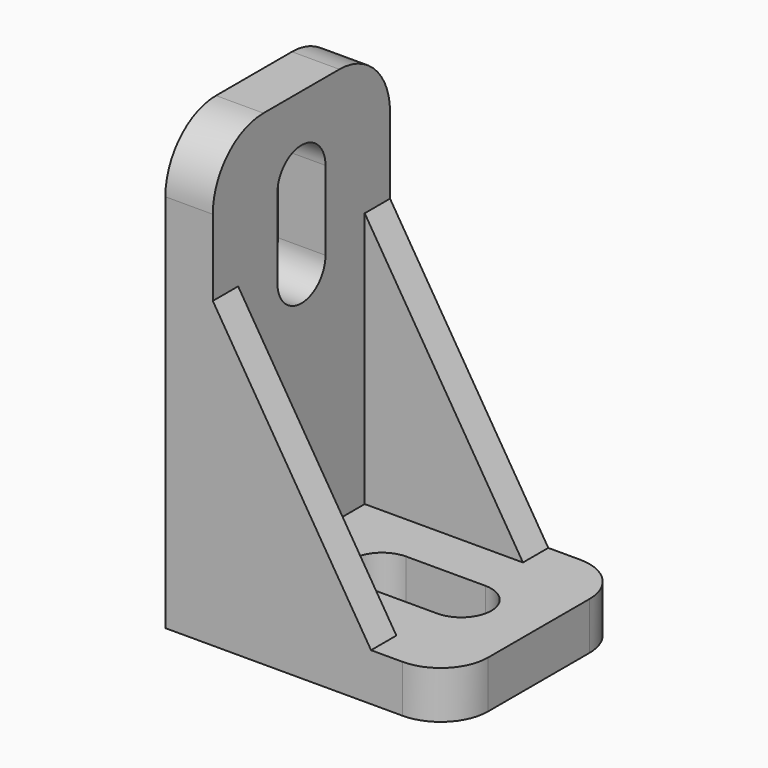
from build123d import *

# Parameters (mm, degrees)
BOX002_W                = 5
BOX002_H                = 3.8
BOX002_DEPTH            = 10
CYLINDER_R              = 1.9
CYLINDER_DEPTH          = 10
ARRAY_X_COUNT           = 2
ARRAY_X_PITCH           = 5
BODY002_PLACEMENT_ANGLE = 90
BOX001_W                = 3
BOX001_H                = 14
BOX001_DEPTH            = 28
FILLET001_R             = 4
PAD_DEPTH               = 2
BOX_W                   = 18
BOX_H                   = 14
BOX_DEPTH               = 3
FILLET_R                = 3


with BuildPart() as between_hole_cube:
    # Box002 → Box002 (new body)
    with BuildSketch(Plane(origin=(0, -1.9, 0), x_dir=(1, 0, 0), z_dir=(0, 0, 1))):
        with Locations((2.5, 1.9)):
            Rectangle(BOX002_W, BOX002_H)
    extrude(amount=BOX002_DEPTH)


with BuildPart() as screw_hole_fusion:
    # Cylinder → Cylinder (new body)
    with BuildSketch(Plane.XY):
        Circle(CYLINDER_R)
    extrude(amount=CYLINDER_DEPTH)

    # Array X: screw hole fusion ×2


with BuildPart() as screw_hole_fusion_1:
    add(screw_hole_fusion.part)
    with Locations(*[(i * ARRAY_X_PITCH, 0, 0) for i in range(1, ARRAY_X_COUNT)]):
        add(screw_hole_fusion.part)

    # Fusion002: union between hole cube
    add(between_hole_cube.part)


with BuildPart() as h_screw_hole_fusion_clone:
    # Body002 base: copy of screw hole fusion
    add(screw_hole_fusion_1.part)


with BuildPart() as h_screw_hole_fusion_clone_1:
    # Body002 placement: moved
    add(h_screw_hole_fusion_clone.part.moved(Location((0, 7, 23.1))).rotate(Axis((0, 7, 23.1), (0, 1, 0)), BODY002_PLACEMENT_ANGLE))


with BuildPart() as hole_fusion:
    # Body001 base: copy of screw hole fusion
    add(screw_hole_fusion_1.part)


with BuildPart() as hole_fusion_1:
    # Body001 placement: moved
    add(hole_fusion.part.moved(Location((8.1, 7, 0))))

    # Fusion001: union h screw hole fusion clone
    add(h_screw_hole_fusion_clone_1.part)


with BuildPart() as bottom_cube_fillet:
    # Box001 → Box001 (new body)
    with BuildSketch(Plane.XY):
        with Locations((1.5, 7)):
            Rectangle(BOX001_W, BOX001_H)
    extrude(amount=BOX001_DEPTH)

    # Fillet001
    fillet001_edges = [bottom_cube_fillet.edges().sort_by_distance(p)[0] for p in [
        (1.5, 0, 28),
        (1.5, 14, 28),
    ]]
    fillet(fillet001_edges, radius=FILLET001_R)


with BuildPart() as triangle_body:
    # Sketch → Pad (new body)
    with BuildSketch(Plane.XZ):
        Polygon((0, 0), (0, 24.03203), (14.854653, 0), align=None)
    extrude(amount=-PAD_DEPTH)


with BuildPart() as part_mirroring:
    # Part__Mirroring: instance of triangle body
    add(triangle_body.part.mirror(Plane(origin=(0, 7, 0), x_dir=(1, 0, 0), z_dir=(0, 1, 0))))


with BuildPart() as bracket_cut:
    # Box → Box (new body)
    with BuildSketch(Plane.XY):
        with Locations((9, 7)):
            Rectangle(BOX_W, BOX_H)
    extrude(amount=BOX_DEPTH)

    # Fillet
    fillet_edges = [bracket_cut.edges().sort_by_distance(p)[0] for p in [
        (18, 0, 1.5),
        (18, 14, 1.5),
    ]]
    fillet(fillet_edges, radius=FILLET_R)

    # Fusion: union bottom cube fillet, Part__Mirroring, triangle body
    add(bottom_cube_fillet.part)
    add(part_mirroring.part)
    add(triangle_body.part)

    # Cut: cut hole fusion
    add(hole_fusion_1.part, mode=Mode.SUBTRACT)


solid = bracket_cut.part
